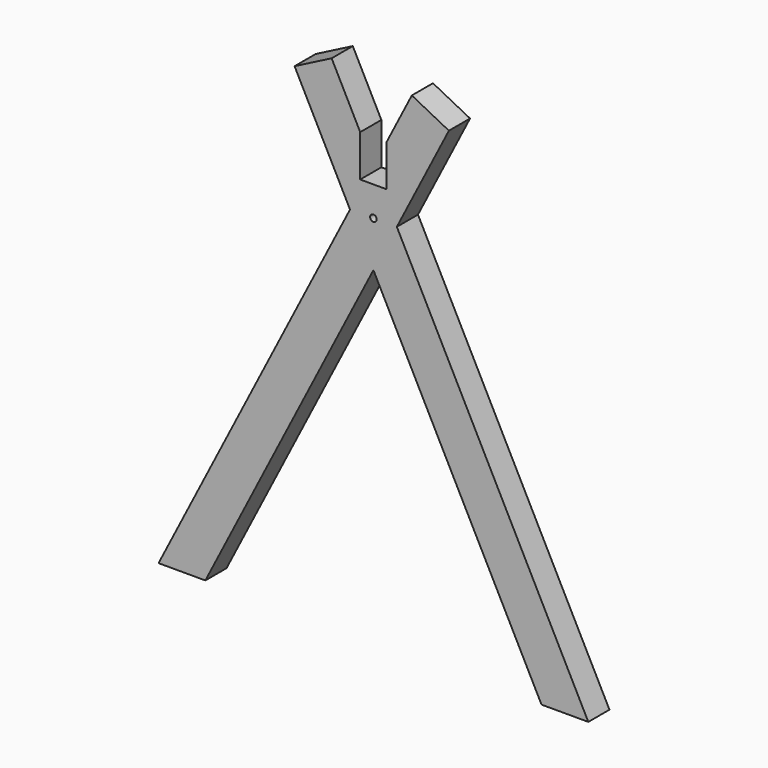
from build123d import *

# Parameters (mm, degrees)
F0_R     = 5
F1_DEPTH = 40


with BuildPart() as f1:
    # F0 (on Front) → F1 (new body)
    with BuildSketch(Plane.XZ):
        Polygon((-20, 23.076462), (-63.196195, 107.349918), (-119.260357, 78.613011), (-35.396944, -85), (-12.331214, -40), (-20, -40), align=None)
        Polygon((-12.331214, -40), (-35.396944, -85), (0, -154.057537), (35.396944, -85), (12.331214, -40), align=None)
        with Locations((0, -85)):
            Circle(F0_R, mode=Mode.SUBTRACT)
        Polygon((0, -154.057537), (-35.396944, -85), (-325, -650), (-254.206111, -650), align=None)
        Polygon((35.396944, -85), (0, -154.057537), (254.206111, -650), (325, -650), align=None)
        Polygon((20, -40), (12.331214, -40), (35.396944, -85), (114.1444, 68.632054), (58.080238, 97.368961), (20, 23.076462), align=None)
    extrude(amount=F1_DEPTH)


solid = f1.part
